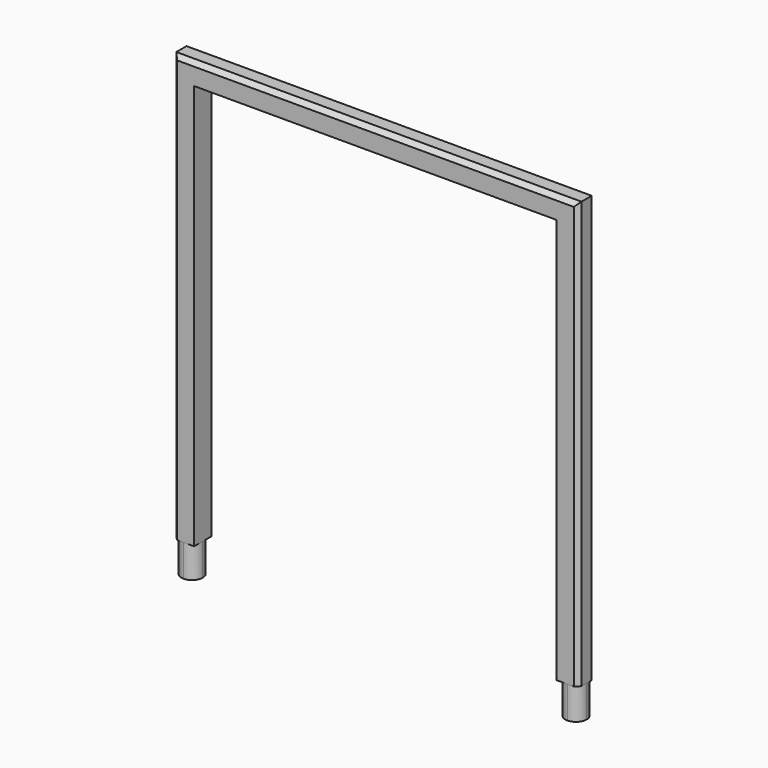
from build123d import *

# Parameters (mm, degrees)
F1_DEPTH = 25.4
F3_DEPTH = 38.1
F5_DEPTH = 38.1
F6_SIZE  = 5.08


with BuildPart() as f1:
    # F0 (on Front) → F1 (new body)
    with BuildSketch(Plane.XZ):
        Polygon((-25.4, 0), (0, 0), (0, 482.6), (431.8, 482.6), (431.8, 0), (457.2, 0), (457.2, 508), (-25.4, 508), align=None)
    extrude(amount=-F1_DEPTH)

    # F2 (on face) → F3 (join)
    with BuildSketch(Plane(origin=(0, 0, 0), x_dir=(1, 0, 0), z_dir=(0, 0, -1))):
        with BuildLine():
            Line((-12.7, -12.7), (-12.7, 0))
            ThreePointArc((-12.7, 0), (-21.6802561211, -3.7197438789), (-25.4, -12.7))
            Line((-25.4, -12.7), (-12.7, -12.7))
        make_face()
        with BuildLine():
            ThreePointArc((0, -12.7), (-3.7197438789, -3.7197438789), (-12.7, 0))
            Line((-12.7, 0), (-12.7, -12.7))
            Line((-12.7, -12.7), (0, -12.7))
        make_face()
        with BuildLine():
            Line((-12.7, -25.4), (-12.7, -12.7))
            Line((-12.7, -12.7), (-25.4, -12.7))
            ThreePointArc((-25.4, -12.7), (-21.6802561211, -21.6802561211), (-12.7, -25.4))
        make_face()
        with BuildLine():
            Line((0, -12.7), (-12.7, -12.7))
            Line((-12.7, -12.7), (-12.7, -25.4))
            ThreePointArc((-12.7, -25.4), (-3.7197438789, -21.6802561211), (0, -12.7))
        make_face()
    extrude(amount=F3_DEPTH)

    # F4 (on face) → F5 (join)
    with BuildSketch(Plane(origin=(0, 0, 0), x_dir=(1, 0, 0), z_dir=(0, 0, -1))):
        with BuildLine():
            Line((444.5, -12.7), (431.8, -12.7))
            ThreePointArc((431.8, -12.7), (435.5197438789, -21.6802561211), (444.5, -25.4))
            Line((444.5, -25.4), (444.5, -12.7))
        make_face()
        with BuildLine():
            ThreePointArc((444.5, 0), (435.5197438789, -3.7197438789), (431.8, -12.7))
            Line((431.8, -12.7), (444.5, -12.7))
            Line((444.5, -12.7), (444.5, 0))
        make_face()
        with BuildLine():
            Line((457.2, -12.7), (444.5, -12.7))
            Line((444.5, -12.7), (444.5, -25.4))
            ThreePointArc((444.5, -25.4), (453.4802561211, -21.6802561211), (457.2, -12.7))
        make_face()
        with BuildLine():
            Line((444.5, 0), (444.5, -12.7))
            Line((444.5, -12.7), (457.2, -12.7))
            ThreePointArc((457.2, -12.7), (453.4802561211, -3.7197438789), (444.5, 0))
        make_face()
    extrude(amount=F5_DEPTH)

    # F6
    f6_edges = [f1.edges().sort_by_distance(p)[0] for p in [
        (457.2, 25.4, 254),
        (457.2, 0, 254),
        (-25.4, 25.4, 254),
        (-25.4, 0, 254),
        (215.9, 0, 508),
        (215.9, 25.4, 508),
    ]]
    chamfer(f6_edges, length=F6_SIZE)


solid = f1.part
